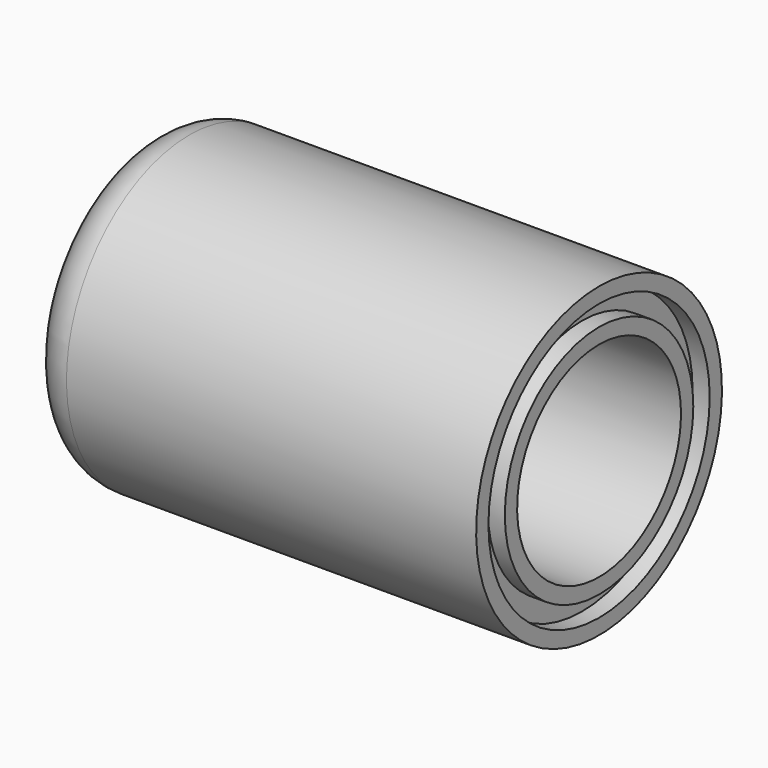
from build123d import *

# Parameters (mm, degrees)
F2_R = 5


with BuildPart() as f1:
    # F0 (on Front) → F1 (revolve)
    with BuildSketch(Plane.XZ):
        Polygon((0, 18), (0, 0), (5, 0), (5, 7.5), (10, 7.5), (10, 12), (53, 12), (53, 13.8), (51, 13.8), (51, 16.2), (53, 16.2), (53, 18), align=None)
    revolve(axis=Axis((2.5, 0, 0), (-1, 0, 0)))

    # F2
    f2_edges = [f1.edges().sort_by_distance(p)[0] for p in [
        (0, 0, -18),
    ]]
    fillet(f2_edges, radius=F2_R)


solid = f1.part
